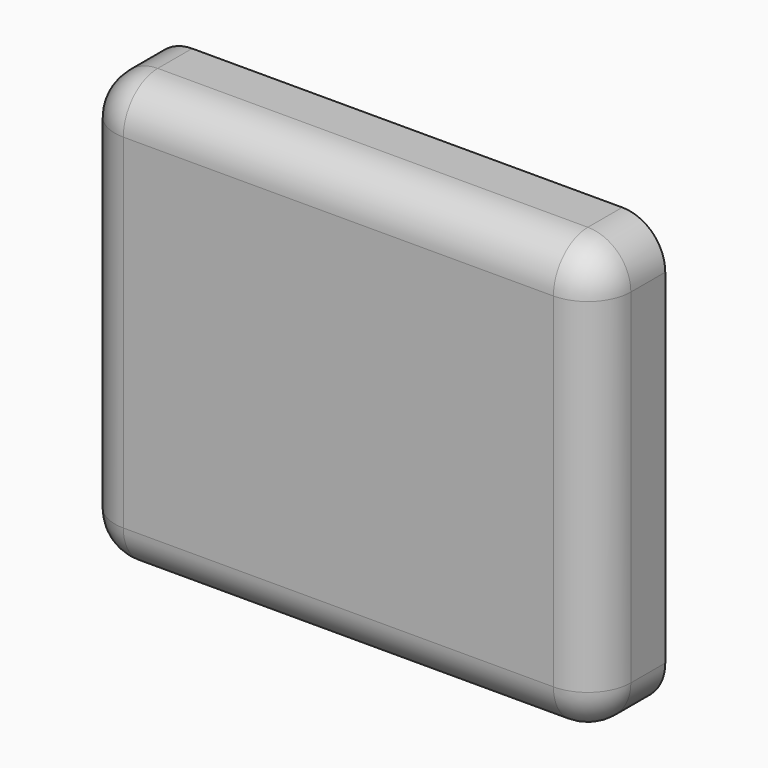
from build123d import *

# Parameters (mm, degrees)
F0_W     = 60
F0_H     = 50
F1_DEPTH = 10
F2_R     = 5
F3_T     = -1.5


with BuildPart() as f1:
    # F0 (on Front) → F1 (new body)
    with BuildSketch(Plane.XZ):
        with Locations((-30, 25)):
            Rectangle(F0_W, F0_H)
    extrude(amount=F1_DEPTH)

    # F2
    f2_edges = [f1.edges().sort_by_distance(p)[0] for p in [
        (-60, -5, 50),
        (-30, -10, 50),
        (-60, -10, 25),
        (-30, -10, 0),
        (0, -10, 25),
        (0, -5, 50),
        (-60, -5, 0),
        (0, -5, 0),
    ]]
    fillet(f2_edges, radius=F2_R)

    # F3
    f3_openings = [f1.faces().sort_by_distance(p)[0] for p in [
        (-30, 0, 25),
    ]]
    offset(amount=F3_T, openings=f3_openings)


solid = f1.part
